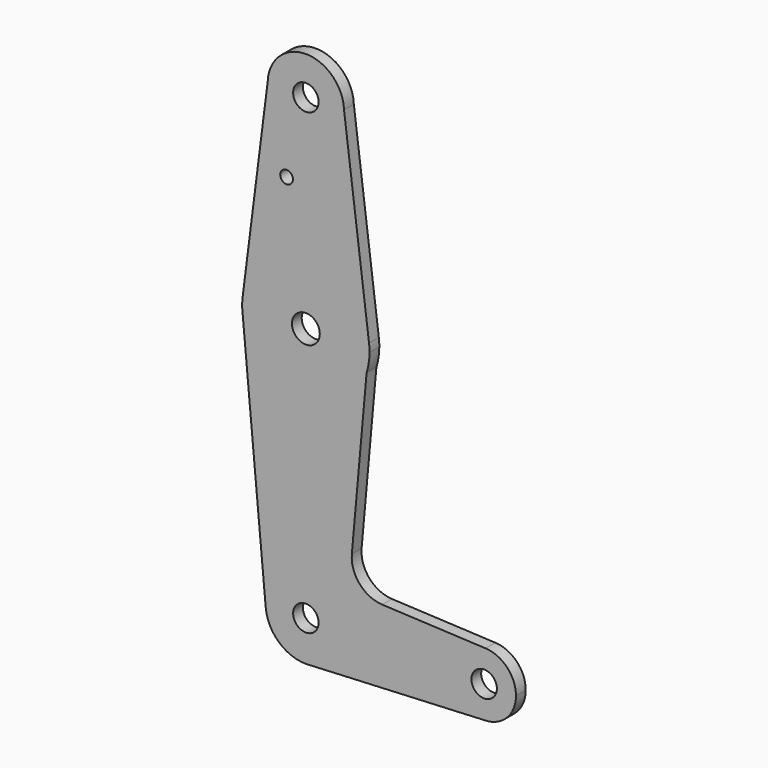
from build123d import *

# Parameters (mm, degrees)
F0_R     = 3.175
F0_R_2   = 1.5875
F0_R_3   = 3.471379
F1_DEPTH = 3.048


with BuildPart() as f1:
    # F0 (on Front) → F1 (new body)
    with BuildSketch(Plane.XZ):
        with BuildLine():
            ThreePointArc((-19.382338, 114.66091), (-10.044666, 104.77671), (-0.339178, 114.3))
            ThreePointArc((-0.339178, 114.3), (-0.34086, 114.478984), (-0.345905, 114.657905))
            ThreePointArc((-0.345905, 114.657905), (-9.862675, 123.825), (-19.382338, 114.66091))
        make_face()
        with Locations((-9.864178, 114.3)):
            Circle(F0_R, mode=Mode.SUBTRACT)
        with BuildLine():
            ThreePointArc((-0.345905, 114.657905), (-0.34086, 114.478984), (-0.339178, 114.3))
            ThreePointArc((-0.339178, 114.3), (-10.044666, 104.77671), (-19.382338, 114.66091))
            Line((-19.382338, 114.66091), (-25.613206, 65.495935))
            ThreePointArc((-25.613206, 65.495935), (-9.864221, 79.375), (5.884838, 65.49602))
            Line((5.884838, 65.49602), (-0.345905, 114.657905))
        make_face()
        with Locations((-14.66855, 95.25)):
            Circle(F0_R_2, mode=Mode.SUBTRACT)
        with BuildLine():
            Line((5.276775, 58.728507), (5.884838, 65.49602))
            ThreePointArc((5.884838, 65.49602), (-9.864221, 79.375), (-25.613206, 65.495935))
            ThreePointArc((-25.613206, 65.495935), (-25.739178, 63.5), (-25.613206, 61.504065))
            ThreePointArc((-25.613206, 61.504065), (-11.284872, 47.688698), (5.276775, 58.728507))
        make_face()
        with Locations((-9.864178, 63.5)):
            Circle(F0_R_3, mode=Mode.SUBTRACT)
        with BuildLine():
            ThreePointArc((6.010822, 63.5), (5.979294, 64.499996), (5.884838, 65.49602))
            Line((5.884838, 65.49602), (5.276775, 58.728507))
            ThreePointArc((5.276775, 58.728507), (5.826237, 61.086187), (6.010822, 63.5))
        make_face()
        with BuildLine():
            Line((1.599716, 17.804231), (5.276775, 58.728507))
            ThreePointArc((5.276775, 58.728507), (-11.284872, 47.688698), (-25.613206, 61.504065))
            Line((-25.613206, 61.504065), (-19.873594, -0.920316))
            ThreePointArc((-19.873594, -0.920316), (-10.32482, 10.041075), (0.187457, 0))
            ThreePointArc((0.187457, 0), (-2.426955, -6.761884), (-8.910183, -10.006262))
            Line((-8.910183, -10.006262), (34.585822, -7.9375))
            ThreePointArc((34.585822, -7.9375), (26.650544, 0.18781), (34.961336, 7.928612))
            Line((34.961336, 7.928612), (9.141902, 9.151471))
            ThreePointArc((9.141902, 9.151471), (3.524946, 11.868903), (1.599716, 17.804231))
        make_face()
        with BuildLine():
            ThreePointArc((0.187457, 0), (-10.32482, 10.041075), (-19.873594, -0.920316))
            ThreePointArc((-19.873594, -0.920316), (-16.638568, -7.425835), (-9.864178, -10.051636))
            Line((-9.864178, -10.051636), (-8.910183, -10.006262))
            ThreePointArc((-8.910183, -10.006262), (-2.426955, -6.761884), (0.187457, 0))
        make_face()
        with Locations((-9.864178, 0)):
            Circle(F0_R, mode=Mode.SUBTRACT)
        with BuildLine():
            Line((-8.910183, -10.006262), (-9.864178, -10.051636))
            ThreePointArc((-9.864178, -10.051636), (-9.386641, -10.040286), (-8.910183, -10.006262))
        make_face()
        with BuildLine():
            ThreePointArc((42.523322, 0), (40.329712, 5.478287), (34.961336, 7.928612))
            ThreePointArc((34.961336, 7.928612), (26.650544, 0.18781), (34.585822, -7.9375))
            ThreePointArc((34.585822, -7.9375), (40.198482, -5.61266), (42.523322, 0))
        make_face()
        with Locations((34.585822, 0)):
            Circle(F0_R, mode=Mode.SUBTRACT)
    extrude(amount=F1_DEPTH)


solid = f1.part
